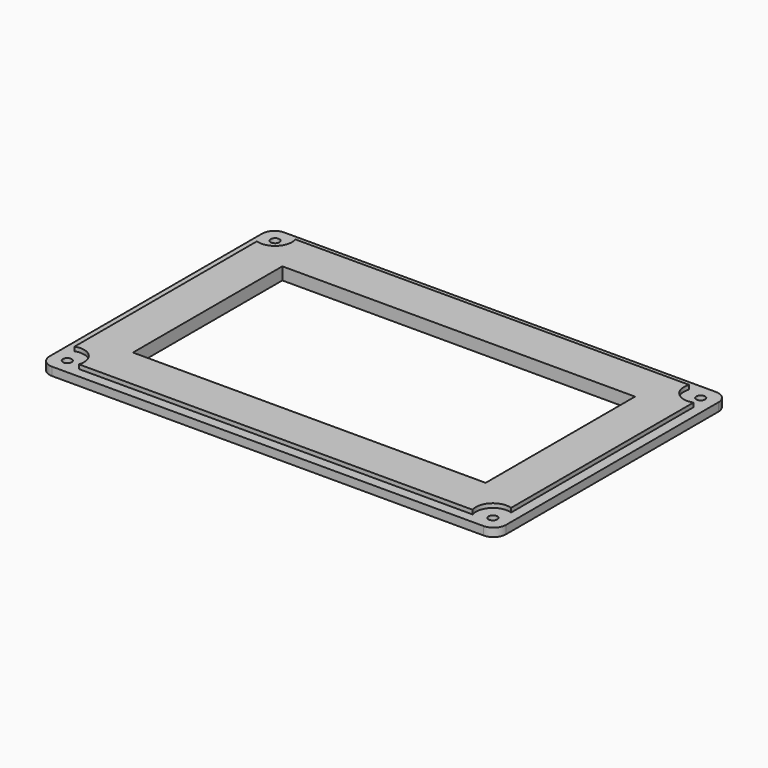
from build123d import *

# Parameters (mm, degrees)
F0_R     = 1.050001
F1_DEPTH = 2
F0_W     = 85
F0_H     = 45
F2_DEPTH = 3


with BuildPart() as f1:
    # F0 (on Top) → F1 (new body)
    with BuildSketch(Plane.XY):
        with BuildLine():
            ThreePointArc((55, 32), (54.12132, 34.12132), (52, 35))
            Line((52, 35), (-52, 35))
            ThreePointArc((-52, 35), (-54.12132, 34.12132), (-55, 32))
            Line((-55, 32), (-55, -32))
            ThreePointArc((-55, -32), (-54.12132, -34.12132), (-52, -35))
            Line((-52, -35), (52, -35))
            ThreePointArc((52, -35), (54.12132, -34.12132), (55, -32))
            Line((55, -32), (55, 32))
        make_face()
        with Locations((-51.286835, -31.298466)):
            Circle(F0_R, mode=Mode.SUBTRACT)
        with Locations((51.286835, -31.298466)):
            Circle(F0_R, mode=Mode.SUBTRACT)
        with Locations((-51.286835, 31.298466)):
            Circle(F0_R, mode=Mode.SUBTRACT)
        with BuildLine():
            ThreePointArc((47.451668, 32.600001), (48.427401, 28.430343), (52.600001, 27.467266))
            Line((52.600001, 27.467266), (52.600001, -27.467266))
            ThreePointArc((52.600001, -27.467266), (48.427401, -28.430343), (47.451668, -32.600001))
            Line((47.451668, -32.600001), (-47.451668, -32.600001))
            ThreePointArc((-47.451668, -32.600001), (-48.427401, -28.430343), (-52.600001, -27.467266))
            Line((-52.600001, -27.467266), (-52.600001, 27.467266))
            ThreePointArc((-52.600001, 27.467266), (-48.427401, 28.430343), (-47.451668, 32.600001))
            Line((-47.451668, 32.600001), (47.451668, 32.600001))
        make_face(mode=Mode.SUBTRACT)
        with Locations((51.286835, 31.298466)):
            Circle(F0_R, mode=Mode.SUBTRACT)
    extrude(amount=F1_DEPTH)

    # F0 (on Top) → F2 (join)
    with BuildSketch(Plane.XY):
        with BuildLine():
            Line((52.600001, -27.467266), (52.600001, 27.467266))
            ThreePointArc((52.600001, 27.467266), (48.427401, 28.430343), (47.451668, 32.600001))
            Line((47.451668, 32.600001), (-47.451668, 32.600001))
            ThreePointArc((-47.451668, 32.600001), (-48.427401, 28.430343), (-52.600001, 27.467266))
            Line((-52.600001, 27.467266), (-52.600001, -27.467266))
            ThreePointArc((-52.600001, -27.467266), (-48.427401, -28.430343), (-47.451668, -32.600001))
            Line((-47.451668, -32.600001), (47.451668, -32.600001))
            ThreePointArc((47.451668, -32.600001), (48.427401, -28.430343), (52.600001, -27.467266))
        make_face()
        Rectangle(F0_W, F0_H, mode=Mode.SUBTRACT)
    extrude(amount=F2_DEPTH)


solid = f1.part
